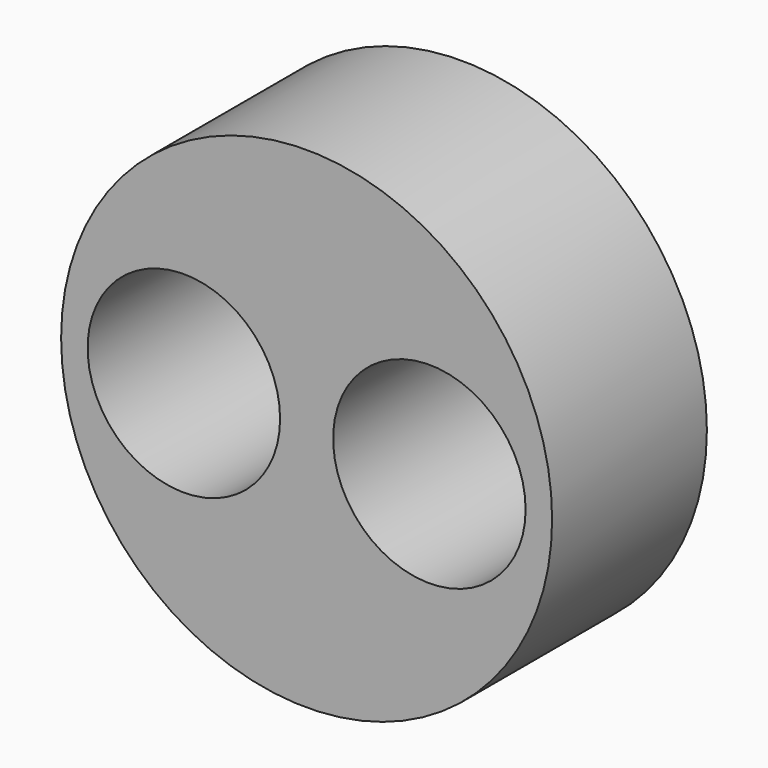
from build123d import *

# Parameters (mm, degrees)
F0_R     = 6.35
F0_R_2   = 2.4892
F1_DEPTH = 5.0038


with BuildPart() as f1:
    # F0 (on Front) → F1 (new body)
    with BuildSketch(Plane.XZ):
        Circle(F0_R)
        with Locations((-3.175, 0)):
            Circle(F0_R_2, mode=Mode.SUBTRACT)
        with Locations((3.175, 0)):
            Circle(F0_R_2, mode=Mode.SUBTRACT)
    extrude(amount=F1_DEPTH)


solid = f1.part
